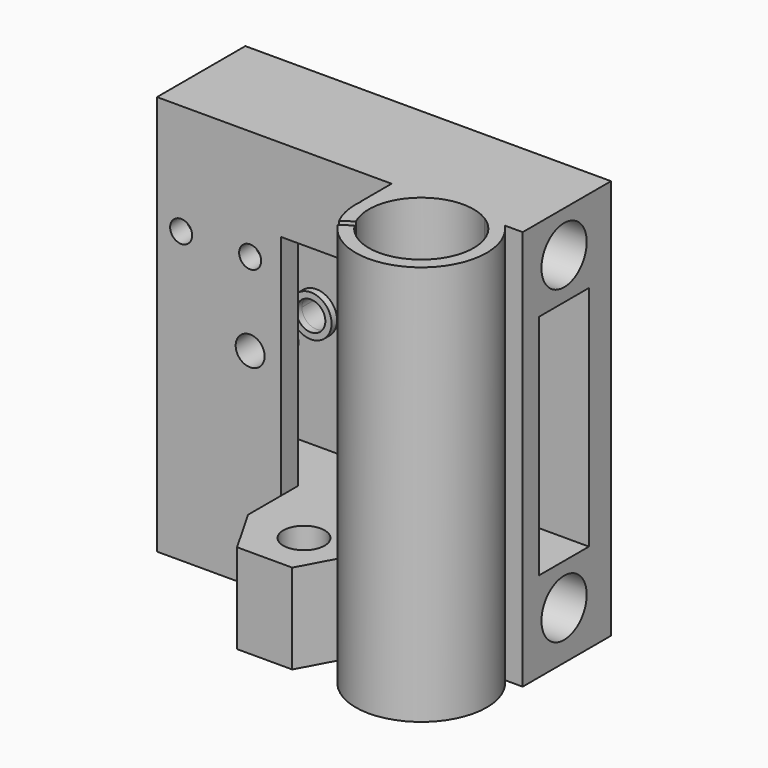
from build123d import *

# Parameters (mm, degrees)
PAD_DEPTH       = 58
SKETCH001_R     = 9.5
SKETCH001_R_2   = 7.6
PAD001_DEPTH    = 58
SKETCH002_R     = 7.6
SKETCH002_R_2   = 3
POCKET_DEPTH    = 58
SKETCH003_R     = 4.1
SKETCH003_W     = 9
SKETCH003_H     = 33
POCKET001_DEPTH = 53
SKETCH004_W     = 16
SKETCH004_H     = 16
POCKET002_DEPTH = 45
SKETCH005_W     = 16
SKETCH005_H     = 33
POCKET003_DEPTH = 40
SKETCH006_R     = 2.1
SKETCH006_R_2   = 1.6
POCKET004_DEPTH = 30
SKETCH007_R     = 3
SKETCH007_R_2   = 2.1
PAD002_DEPTH    = 5
SKETCH008_R     = 3
SKETCH008_R_2   = 2.1
PAD003_DEPTH    = 5
POCKET005_DEPTH = 58


with BuildPart() as part:
    # Sketch → Pad (new body)
    with BuildSketch(Plane.XY):
        Polygon((-33.20822, 18.829675), (19.79178, 18.829675), (19.79178, 2.829675), (3.79178, 2.829675), (-3.20822, -10.170325), (-11.20822, -10.170325), (-15.20822, -3.170325), (-15.20822, 2.829675), (-33.20822, 2.829675), align=None)
    extrude(amount=PAD_DEPTH)

    # Sketch001 → Pad001 (new body)
    with BuildSketch(Plane.XY.offset(58)):
        with Locations((10.29178, -3.670325)):
            Circle(SKETCH001_R)
        with Locations((10.29178, -3.670325)):
            Circle(SKETCH001_R_2, mode=Mode.SUBTRACT)
    extrude(amount=-PAD001_DEPTH)

    # Sketch002 → Pocket (cut)
    with BuildSketch(Plane.XY.offset(58)):
        with Locations((10.29178, -3.670325)):
            Circle(SKETCH002_R)
        with Locations((-6.70822, -3.670325)):
            Circle(SKETCH002_R_2)
    extrude(amount=-POCKET_DEPTH, mode=Mode.SUBTRACT)

    # Sketch003 → Pocket001 (cut)
    with BuildSketch(Plane.YZ.offset(19.79178)):
        with Locations((10.329675, 52.018545)):
            Circle(SKETCH003_R)
        with Locations((10.329675, 7.018545)):
            Circle(SKETCH003_R)
        with Locations((10.329675, 29.5)):
            Rectangle(SKETCH003_W, SKETCH003_H)
    extrude(amount=-POCKET001_DEPTH, mode=Mode.SUBTRACT)

    # Sketch004 → Pocket002 (cut)
    with BuildSketch(Plane.XY.offset(58)):
        with Locations((-7.20822, -5.170325)):
            Rectangle(SKETCH004_W, SKETCH004_H)
    extrude(amount=-POCKET002_DEPTH, mode=Mode.SUBTRACT)

    # Sketch005 → Pocket003 (cut)
    with BuildSketch(Plane.XZ.offset(-2.829675)):
        with Locations((-7.20822, 29.5)):
            Rectangle(SKETCH005_W, SKETCH005_H)
    extrude(amount=-POCKET003_DEPTH, mode=Mode.SUBTRACT)

    # Sketch006 → Pocket004 (cut)
    with BuildSketch(Plane.XZ.offset(-2.829675)):
        with Locations((-19.70822, 30)):
            Circle(SKETCH006_R)
        with Locations((-29.70822, 42)):
            Circle(SKETCH006_R_2)
        with Locations((-19.70822, 42)):
            Circle(SKETCH006_R_2)
    extrude(amount=-POCKET004_DEPTH, mode=Mode.SUBTRACT)

    # Sketch007 → Pad002 (new body)
    with BuildSketch(Plane.XZ.offset(-2.829675)):
        with Locations((-19.70822, 30)):
            Circle(SKETCH007_R)
        with Locations((-19.70822, 30)):
            Circle(SKETCH007_R_2, mode=Mode.SUBTRACT)
    extrude(amount=-PAD002_DEPTH)

    # Sketch008 → Pad003 (new body)
    with BuildSketch(Plane(origin=(0, 18.829675, 0), x_dir=(-1, 0, 0), z_dir=(0, 1, 0))):
        with Locations((19.70822, 30)):
            Circle(SKETCH008_R)
        with Locations((19.70822, 30)):
            Circle(SKETCH008_R_2, mode=Mode.SUBTRACT)
    extrude(amount=-PAD003_DEPTH)

    # Sketch009 → Pocket005 (cut)
    with BuildSketch(Plane.XY.offset(58)):
        Polygon((10.557791, -2.306743), (-0.062185, -9.183362), (0.481338, -10.022756), (11.101313, -3.146138), align=None)
    extrude(amount=-POCKET005_DEPTH, mode=Mode.SUBTRACT)


solid = part.part
